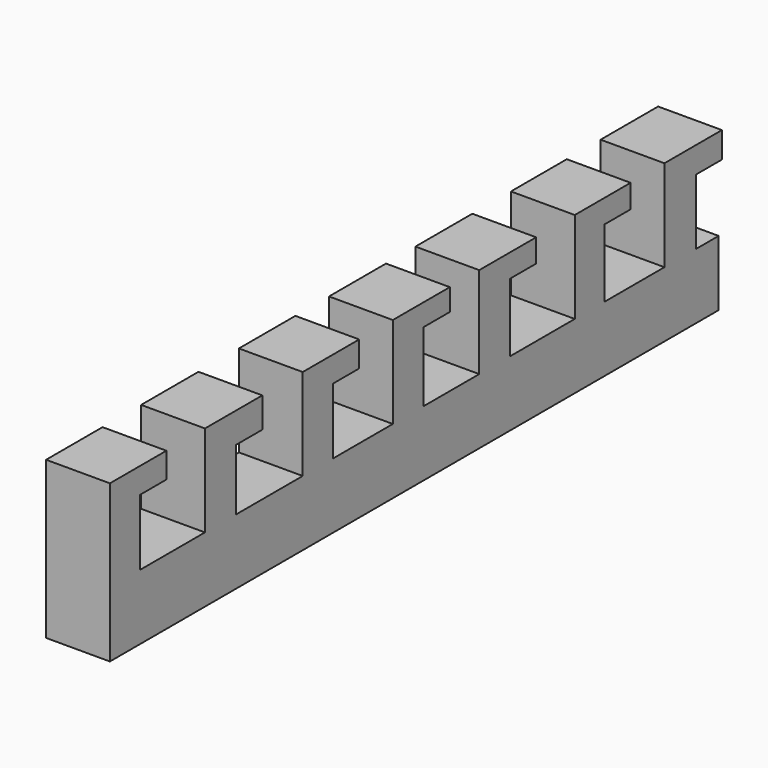
from build123d import *

# Parameters (mm, degrees)
F0_W      = 12.4007742852
F0_H      = 147.8563919663
F1_DEPTH  = 12.7
F2_W      = 12.4007742852
F2_H      = 7.5796097517
F2_H_2    = 7.3651988059
F2_H_3    = 7.48882466
F2_H_4    = 7.4724052101
F2_H_5    = 7.208738476
F2_H_6    = 7.6124407351
F2_H_7    = 7.3697865009
F3_DEPTH  = 17.78
F4_W      = 12.4007742852
F4_H      = 4.9358203965
F5_DEPTH  = 6.35
F6_W      = 12.4007742852
F6_H      = 5.8721274096
F8_W      = 12.4007742852
F8_H      = 4.2509499896
F9_W      = 12.4007742852
F9_H      = 4.4994622427
F10_W     = 12.4007742852
F10_H     = 4.5405410188
F11_W     = 12.4007742852
F11_H     = 5.0489034462
F12_DEPTH = 6.35
F7_W      = 12.4007742852
F7_H      = 4.9657884943
F13_DEPTH = 6.35


with BuildPart() as f1:
    # F0 (on Top) → F1 (new body)
    with BuildSketch(Plane.XY):
        with Locations((-36.0559495166, 0.0271089375)):
            Rectangle(F0_W, F0_H)
    extrude(amount=F1_DEPTH)

    # F2 (on face) → F3 (join)
    with BuildSketch(Plane.XY.offset(12.7)):
        with Locations((-36.0559495166, -47.0269694924)):
            Rectangle(F2_W, F2_H)
        with Locations((-36.0559495166, -23.3870735392)):
            Rectangle(F2_W, F2_H_2)
        with Locations((-36.0559495166, -1.4402301749)):
            Rectangle(F2_W, F2_H_3)
        with Locations((-36.0559495166, 19.5383997634)):
            Rectangle(F2_W, F2_H_4)
        with Locations((-36.0559495166, 42.6099169999)):
            Rectangle(F2_W, F2_H_5)
        with Locations((-36.0559495166, 64.5896028727)):
            Rectangle(F2_W, F2_H_6)
        with Locations((-36.0559495166, -70.2161937952)):
            Rectangle(F2_W, F2_H_7)
    extrude(amount=F3_DEPTH)

    # F4 (on face) → F5 (join)
    with BuildSketch(Plane(origin=(0, -66.5313005447, 0), x_dir=(-1, 0, 0), z_dir=(0, 1, 0))):
        with Locations((36.0559495166, 28.0120898017)):
            Rectangle(F4_W, F4_H)
    extrude(amount=F5_DEPTH)

    # F6 (on face) + F8 (on face) + F9 (on face) + F10 (on face) + F11 (on face) → F12 (join)
    with BuildSketch(Plane(origin=(0, -43.2371646166, 0), x_dir=(-1, 0, 0), z_dir=(0, 1, 0))):
        with Locations((36.0559495166, 27.5439362952)):
            Rectangle(F6_W, F6_H)
    with BuildSketch(Plane(origin=(0, 2.3041821551, 0), x_dir=(-1, 0, 0), z_dir=(0, 1, 0))):
        with Locations((36.0559495166, 28.3545250052)):
            Rectangle(F8_W, F8_H)
    with BuildSketch(Plane(origin=(0, 23.2746023685, 0), x_dir=(-1, 0, 0), z_dir=(0, 1, 0))):
        with Locations((36.0559495166, 28.2302688786)):
            Rectangle(F9_W, F9_H)
    with BuildSketch(Plane(origin=(0, 46.214286238, 0), x_dir=(-1, 0, 0), z_dir=(0, 1, 0))):
        with Locations((36.0559495166, 28.2097294906)):
            Rectangle(F10_W, F10_H)
    with BuildSketch(Plane(origin=(0, 68.3958232403, 0), x_dir=(-1, 0, 0), z_dir=(0, 1, 0))):
        with Locations((36.0559495166, 27.9555482769)):
            Rectangle(F11_W, F11_H)
    extrude(amount=F12_DEPTH)

    # F7 (on face) → F13 (join)
    with BuildSketch(Plane(origin=(0, -19.7044741362, 0), x_dir=(-1, 0, 0), z_dir=(0, 1, 0))):
        with Locations((36.0559495166, 27.9971057528)):
            Rectangle(F7_W, F7_H)
    extrude(amount=F13_DEPTH)


solid = f1.part
